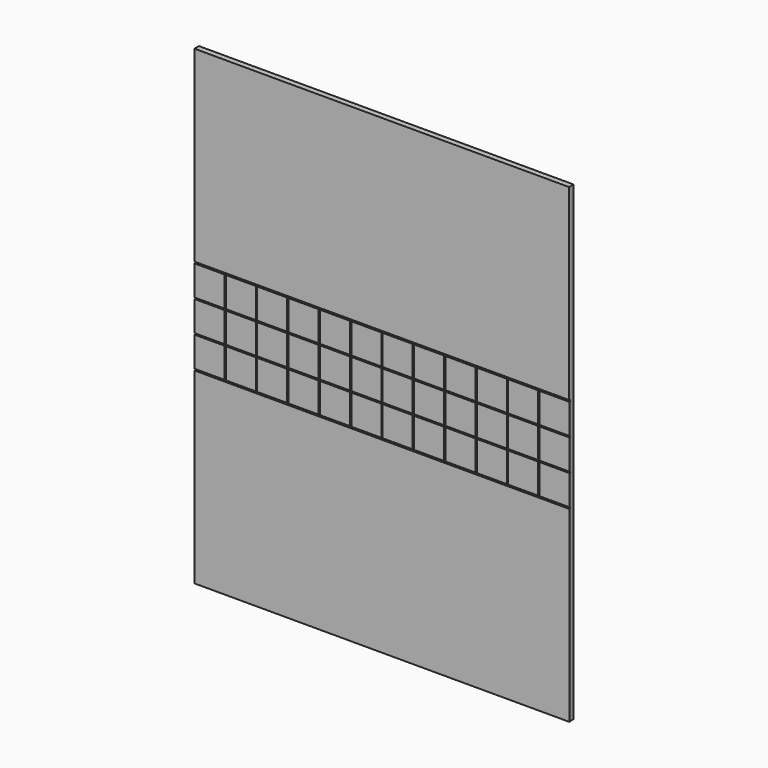
from build123d import *

# Parameters (mm, degrees)
F0_W     = 600
F0_H     = 300
F0_W_2   = 48
F0_H_2   = 48
F0_W_3   = 599.369857
F1_DEPTH = 2
F2_W     = 599.369857
F2_H     = 753.4
F3_DEPTH = 7


with BuildPart() as f1:
    # F0 (on Front) → F1 (new body)
    with BuildSketch(Plane.XZ):
        with Locations((300, 150)):
            Rectangle(F0_W, F0_H)
        with Locations((24, 326.5)):
            Rectangle(F0_W_2, F0_H_2)
        with Locations((299.684929, 603.4)):
            Rectangle(F0_W_3, F0_H)
        with Locations((24, 376.7)):
            Rectangle(F0_W_2, F0_H_2)
        with Locations((24, 426.9)):
            Rectangle(F0_W_2, F0_H_2)
        with Locations((74.2, 326.5)):
            Rectangle(F0_W_2, F0_H_2)
        with Locations((74.2, 376.7)):
            Rectangle(F0_W_2, F0_H_2)
        with Locations((74.2, 426.9)):
            Rectangle(F0_W_2, F0_H_2)
        with Locations((124.4, 326.5)):
            Rectangle(F0_W_2, F0_H_2)
        with Locations((124.4, 376.7)):
            Rectangle(F0_W_2, F0_H_2)
        with Locations((124.4, 426.9)):
            Rectangle(F0_W_2, F0_H_2)
        with Locations((174.6, 326.5)):
            Rectangle(F0_W_2, F0_H_2)
        with Locations((174.6, 376.7)):
            Rectangle(F0_W_2, F0_H_2)
        with Locations((174.6, 426.9)):
            Rectangle(F0_W_2, F0_H_2)
        with Locations((224.8, 326.5)):
            Rectangle(F0_W_2, F0_H_2)
        with Locations((224.8, 376.7)):
            Rectangle(F0_W_2, F0_H_2)
        with Locations((224.8, 426.9)):
            Rectangle(F0_W_2, F0_H_2)
        with Locations((275, 326.5)):
            Rectangle(F0_W_2, F0_H_2)
        with Locations((275, 376.7)):
            Rectangle(F0_W_2, F0_H_2)
        with Locations((275, 426.9)):
            Rectangle(F0_W_2, F0_H_2)
        with Locations((325.2, 326.5)):
            Rectangle(F0_W_2, F0_H_2)
        with Locations((325.2, 376.7)):
            Rectangle(F0_W_2, F0_H_2)
        with Locations((325.2, 426.9)):
            Rectangle(F0_W_2, F0_H_2)
        with Locations((375.4, 326.5)):
            Rectangle(F0_W_2, F0_H_2)
        with Locations((375.4, 376.7)):
            Rectangle(F0_W_2, F0_H_2)
        with Locations((375.4, 426.9)):
            Rectangle(F0_W_2, F0_H_2)
        with Locations((425.6, 326.5)):
            Rectangle(F0_W_2, F0_H_2)
        with Locations((425.6, 376.7)):
            Rectangle(F0_W_2, F0_H_2)
        with Locations((425.6, 426.9)):
            Rectangle(F0_W_2, F0_H_2)
        with Locations((475.8, 326.5)):
            Rectangle(F0_W_2, F0_H_2)
        with Locations((475.8, 376.7)):
            Rectangle(F0_W_2, F0_H_2)
        with Locations((475.8, 426.9)):
            Rectangle(F0_W_2, F0_H_2)
        with Locations((526, 326.5)):
            Rectangle(F0_W_2, F0_H_2)
        with Locations((526, 376.7)):
            Rectangle(F0_W_2, F0_H_2)
        with Locations((526, 426.9)):
            Rectangle(F0_W_2, F0_H_2)
        with Locations((576.2, 326.5)):
            Rectangle(F0_W_2, F0_H_2)
        with Locations((576.2, 376.7)):
            Rectangle(F0_W_2, F0_H_2)
        with Locations((576.2, 426.9)):
            Rectangle(F0_W_2, F0_H_2)
    extrude(amount=F1_DEPTH)

    # F2 (on face) → F3 (join)
    with BuildSketch(Plane(origin=(0, 0, 0), x_dir=(-1, 0, 0), z_dir=(0, 1, 0))):
        with Locations((-299.684929, 376.7)):
            Rectangle(F2_W, F2_H)
    extrude(amount=F3_DEPTH)


solid = f1.part
